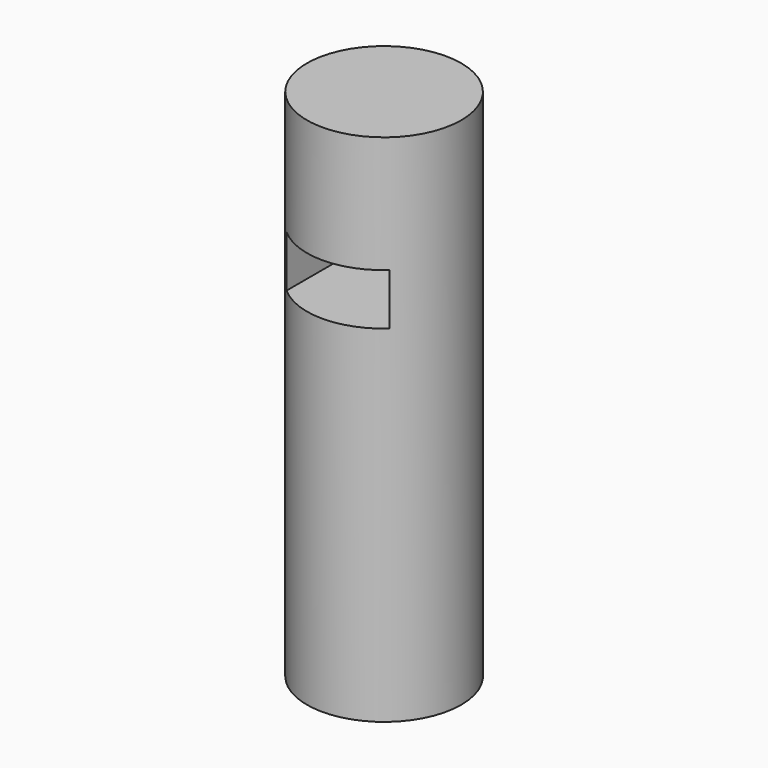
from build123d import *

# Parameters (mm, degrees)
F0_R     = 15
F1_DEPTH = 100
F2_W     = 20
F2_H     = 10
F3_DEPTH = 75


with BuildPart() as f1:
    # F0 (on Top) → F1 (new body)
    with BuildSketch(Plane.XY):
        Circle(F0_R)
    extrude(amount=F1_DEPTH)

    # F2 (on Front) → F3 (cut, symmetric)
    with BuildSketch(Plane.XZ):
        with Locations((0, 72.273272)):
            Rectangle(F2_W, F2_H)
    extrude(amount=F3_DEPTH, both=True, mode=Mode.SUBTRACT)


solid = f1.part
